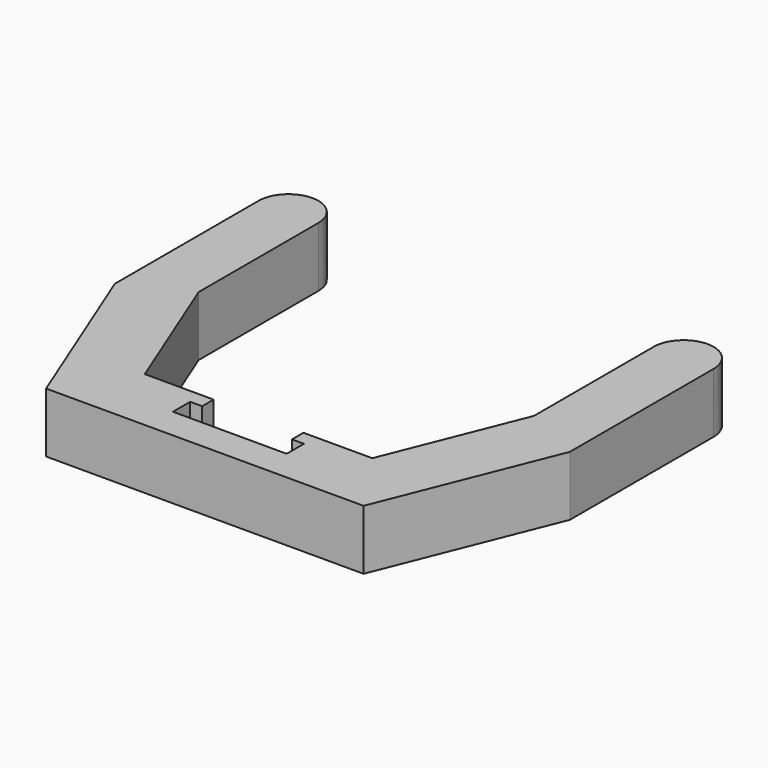
from build123d import *

# Parameters (mm, degrees)
F0_W     = 2
F0_H     = 2.4
F1_DEPTH = 10
F2_DEPTH = 10


with BuildPart() as f1:
    # F0 (on Top) → F1 (new body)
    with BuildSketch(Plane.XY):
        with Locations((-8.5, 4.8)):
            Rectangle(F0_W, F0_H)
        Polygon((-11.5, 0), (-9.5, 0), (-9.5, 3.6), (-9.5, 6), (-11.5, 6), align=None)
        Polygon((9.5, 0), (0, 0), (0, -1.5), (11.5, -1.5), (11.5, 0), align=None)
        with Locations((8.5, 4.8)):
            Rectangle(F0_W, F0_H)
        Polygon((0, -1.5), (0, 0), (-9.5, 0), (-11.5, 0), (-11.5, -1.5), align=None)
        Polygon((9.5, 3.6), (9.5, 0), (11.5, 0), (11.5, 6), (9.5, 6), align=None)
    extrude(amount=F1_DEPTH)

    # F0 (on Top) → F2 (join)
    with BuildSketch(Plane.XY):
        Polygon((-11.5, -1.5), (-11.5, 0), (-11.5, 6), (-19, 6), (-16, -1.5), align=None)
        with BuildLine():
            Line((-31, 6), (-28, 6))
            Line((-28, 6), (-28, 28.5))
            Line((-28, 28.5), (-28, 53.5))
            ThreePointArc((-28, 53.5), (-33, 58.5), (-38, 53.5))
            Line((-38, 53.5), (-38, 23.5))
            Line((-38, 23.5), (-31, 6))
        make_face()
        Polygon((11.5, 0), (11.5, -1.5), (16, -1.5), (19, 6), (11.5, 6), align=None)
        with BuildLine():
            Line((28, 6), (31, 6))
            Line((31, 6), (38, 23.5))
            Line((38, 23.5), (38, 53.5))
            ThreePointArc((38, 53.5), (33, 58.5), (28, 53.5))
            Line((28, 53.5), (28, 28.5))
            Line((28, 28.5), (28, 6))
        make_face()
        Polygon((-28, 6), (-19, 6), (-28, 28.5), align=None)
        Polygon((-28, -1.5), (-16, -1.5), (-19, 6), (-28, 6), (-31, 6), align=None)
        Polygon((19, 6), (16, -1.5), (28, -1.5), (31, 6), (28, 6), align=None)
        Polygon((28, 28.5), (19, 6), (28, 6), align=None)
        Polygon((11.5, -1.5), (0, -1.5), (-11.5, -1.5), (-16, -1.5), (-28, -1.5), (-26.5144372946, -5.2139067635), (26.5144372946, -5.2139067635), (28, -1.5), (16, -1.5), align=None)
    extrude(amount=F2_DEPTH)


solid = f1.part
